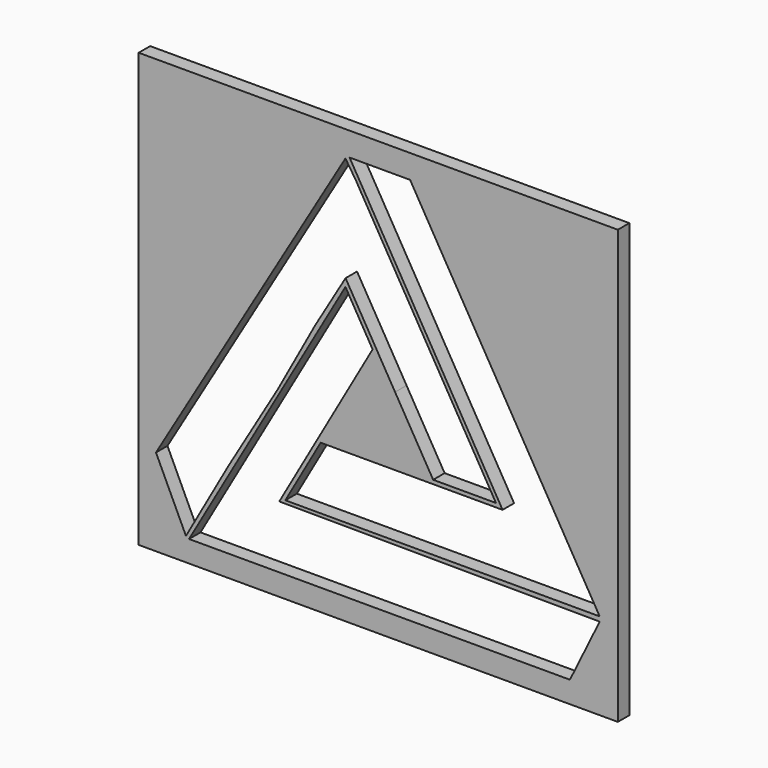
from build123d import *

# Parameters (mm, degrees)
F0_W     = 118.673607
F0_H     = 107.311245
F1_DEPTH = 3.556


with BuildPart() as f1:
    # F0 (on Front) → F1 (new body)
    with BuildSketch(Plane.XZ):
        with Locations((2.367158, -4.73432)):
            Rectangle(F0_W, F0_H)
        Polygon((-26.281362, 7.813388), (-5.76009, 42.52997), (-3.229806, 38.671021), (5.952162, 23.045776), (12.073279, 12.629279), (16.894268, 4.425249), (23.422784, -6.684532), (31.524248, -20.471049), (15.965808, -20.471049), (6.533854, -4.420397), (-5.729737, 16.439604), (-13.243674, 3.728002), (-22.520981, -13.2654), (-30.352025, -26.513463), (-34.748048, -33.950374), (-45.257542, -52.623492), (-52.68156, -36.848787), align=None, mode=Mode.SUBTRACT)
        Polygon((-22.147006, -37.596953), (57.206359, -37.987679), (49.839605, -53.0494), (-44.498395, -53.0494), (-5.76009, 14.51858), (0.967317, 3.075462), align=None, mode=Mode.SUBTRACT)
        Polygon((33.159733, -21.437407), (-4.739669, 43.0572), (10.255703, 43.0572), (19.279467, 27.663719), (57.206359, -36.848787), (22.976579, -36.848787), (-20.651096, -36.848787), (-11.892737, -21.437407), align=None, mode=Mode.SUBTRACT)
    extrude(amount=F1_DEPTH)


solid = f1.part
